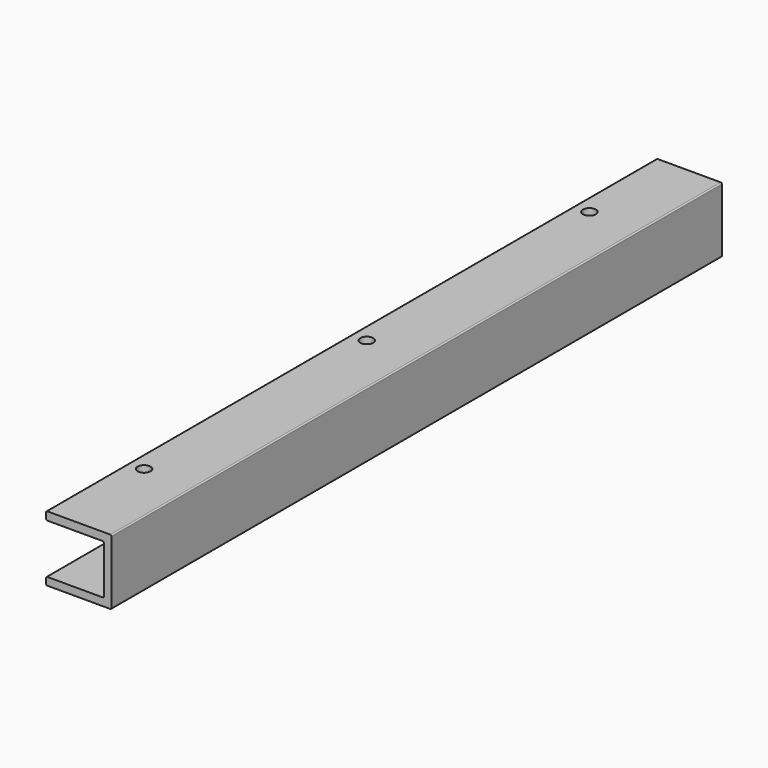
from build123d import *

# Parameters (mm, degrees)
F1_DEPTH = 295.94371
F2_R     = 2.5
F3_DEPTH = 5
F5_R     = 0.5


with BuildPart() as f1:
    # F0 (on Front) → F1 (new body)
    with BuildSketch(Plane.XZ):
        Polygon((0, 3), (0, 0), (25.4, 0), (25.4, 25.4), (0, 25.4), (0, 22.225), (22.4, 22.225), (22.4, 3), align=None)
    extrude(amount=F1_DEPTH)

    # F2 (on face) → F3 (cut)
    with BuildSketch(Plane.XY.offset(25.4)):
        with Locations((6, -40)):
            Circle(F2_R)
        with Locations((6, -147.971855)):
            Circle(F2_R)
        with Locations((6, -255.94371)):
            Circle(F2_R)
    extrude(amount=-F3_DEPTH, mode=Mode.SUBTRACT)

    # F5
    f5_edges = [f1.edges().sort_by_distance(p)[0] for p in [
        (25.4, -147.971855, 25.4),
        (25.4, -147.971855, 0),
        (0, -147.971855, 25.4),
        (0, -147.971855, 22.225),
        (22.4, -147.971855, 22.225),
        (0, -147.971855, 3),
        (0, -147.971855, 0),
        (22.4, -147.971855, 3),
    ]]
    fillet(f5_edges, radius=F5_R)


solid = f1.part
